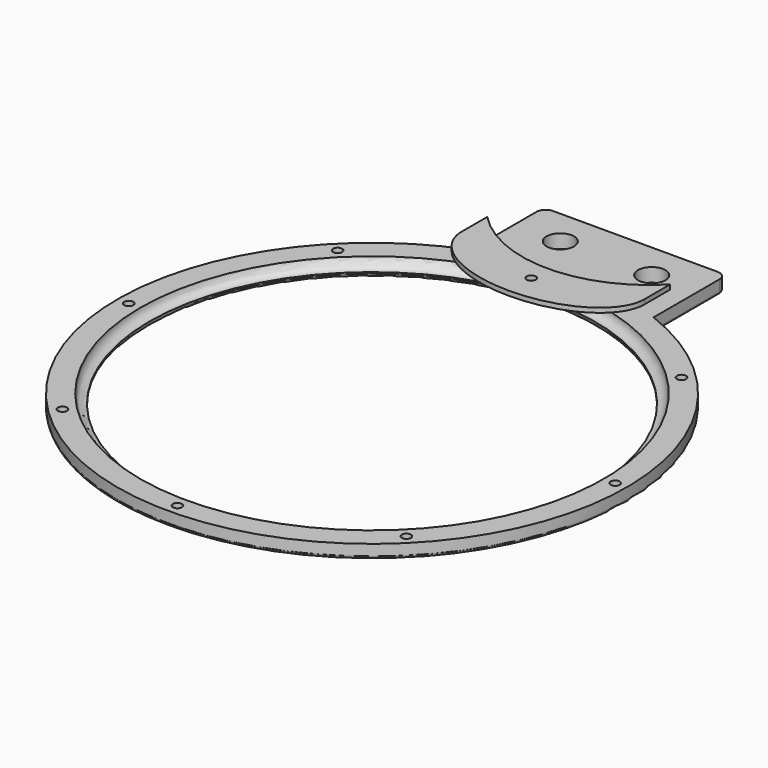
from build123d import *

# Parameters (mm, degrees)
SKETCH001_R        = 1
POCKET_DEPTH       = 318.144904
POLARPATTERN_COUNT = 8
SKETCH002_R        = 3
PAD_DEPTH          = 3
FILLET_R           = 0.7
FILLET001_R        = 2
FILLET002_R        = 0.6
SKETCH003_R        = 1
PAD001_DEPTH       = 1


with BuildPart() as body:
    # Sketch → Revolution (revolve)
    with BuildSketch(Plane.XZ):
        with BuildLine():
            ThreePointArc((-50.7, 0), (-50.114214, -1.414214), (-48.7, -2))
            Line((-48.7, -2), (-48.7, -3))
            Line((-48.7, -3), (-55.7, -3))
            Line((-55.7, -3), (-55.7, 0))
            Line((-55.7, 0), (-50.7, 0))
        make_face()
    revolve(axis=Axis((0, 0, 0), (0, 0, 1)))

    # Sketch001 (on Face5 of Revolution) → Pocket (cut, through all)
    with BuildSketch(Plane(origin=(0, 0, 0), x_dir=(-1, 0, 0), z_dir=(0, 0, 1))):
        with Locations((0, 53.2)):
            Circle(SKETCH001_R)
    pocket = extrude(amount=-POCKET_DEPTH, mode=Mode.SUBTRACT)

    # PolarPattern: Pocket ×8 about axis
    polarpattern_axis = Axis((0, 0, 0), (0, 0, 1))
    for i in range(1, POLARPATTERN_COUNT):
        add(pocket.rotate(polarpattern_axis, i * 360 / POLARPATTERN_COUNT), mode=Mode.SUBTRACT)

    # Sketch002 (on Face2 of PolarPattern) → Pad (join)
    with BuildSketch(Plane(origin=(0, 0, 0), x_dir=(-1, 0, 0), z_dir=(0, 0, 1))):
        with BuildLine():
            Line((-20, -51.985479), (-20, -71.985479))
            Line((-20, -71.985479), (20, -71.985479))
            Line((20, -71.985479), (20, -51.985479))
            ThreePointArc((-20, -51.985479), (0, -55.7), (20, -51.985479))
        make_face()
        with Locations((-10, -63.985479)):
            Circle(SKETCH002_R, mode=Mode.SUBTRACT)
        with Locations((10, -63.985479)):
            Circle(SKETCH002_R, mode=Mode.SUBTRACT)
    extrude(amount=-PAD_DEPTH)

    # Fillet
    fillet_edges = [body.edges().sort_by_distance(p)[0] for p in [
        (48.7, 0, -3),
    ]]
    fillet(fillet_edges, radius=FILLET_R)

    # Fillet001
    fillet001_edges = [body.edges().sort_by_distance(p)[0] for p in [
        (-20, 71.985479, -1.5),
        (20, 71.985479, -1.5),
    ]]
    fillet(fillet001_edges, radius=FILLET001_R)

    # Fillet002
    fillet002_edges = [body.edges().sort_by_distance(p)[0] for p in [
        (0, 71.985479, -3),
        (-19.414214, 71.399692, -3),
        (-20, 60.985479, -3),
        (-45.915629, 31.531651, -3),
        (31.531651, -45.915629, -3),
        (20, 60.985479, -3),
        (19.414214, 71.399692, -3),
    ]]
    fillet(fillet002_edges, radius=FILLET002_R)


with BuildPart() as body001:
    # Sketch003 → Pad001 (new body)
    with BuildSketch(Plane.XY):
        with BuildLine():
            add(Edge.make_bspline(
                [(-20, 0), (-20, -12), (0, -12), (20, -12), (20, 0)],
                knots=[0, 0, 0, 1.570796, 1.570796, 3.141593, 3.141593, 3.141593], degree=2, weights=[1, 0.707107, 1, 0.707107, 1]))
            Line((20, 0), (20, 7))
            ThreePointArc((20, 7), (0, -1.469017), (-20, 7))
            Line((-20, 7), (-20, 0))
        make_face()
        with Locations((0, -5.969017)):
            Circle(SKETCH003_R, mode=Mode.SUBTRACT)
    extrude(amount=PAD001_DEPTH)


with BuildPart() as body001_1:
    # Body001 placement: moved
    add(body001.part.moved(Location((0, 49.5, 3.5))))


solid = Compound([body.part, body001_1.part])
